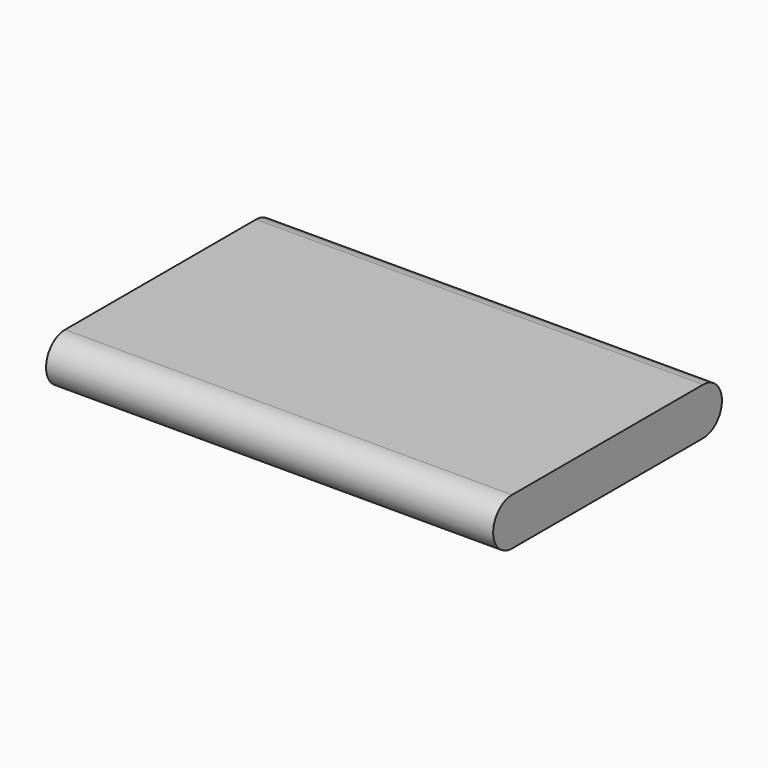
from build123d import *

# Parameters (mm, degrees)
PAD_DEPTH    = 53
SKETCH001_W  = 2
SKETCH001_H  = 4.6
POCKET_DEPTH = 0.6


with BuildPart() as part:
    # Sketch → Pad (new body)
    with BuildSketch(Plane.YZ):
        with BuildLine():
            ThreePointArc((-14.15, 2.8), (-16.95, 0), (-14.15, -2.8))
            Line((-14.15, -2.8), (14.15, -2.8))
            ThreePointArc((14.15, -2.8), (16.95, 0), (14.15, 2.8))
            Line((-14.15, 2.8), (14.15, 2.8))
        make_face()
    extrude(amount=PAD_DEPTH)

    # Sketch001 (on DatumPlane) → Pocket (cut)
    with BuildSketch(Plane(origin=(0, 0, 0), x_dir=(0, 1, 0), z_dir=(-1, 0, 0))):
        with Locations((12.95, 0)):
            Rectangle(SKETCH001_W, SKETCH001_H)
        with Locations((9.75, 0)):
            Rectangle(SKETCH001_W, SKETCH001_H)
        with Locations((6.55, 0)):
            Rectangle(SKETCH001_W, SKETCH001_H)
    extrude(amount=-POCKET_DEPTH, mode=Mode.SUBTRACT)


solid = part.part
